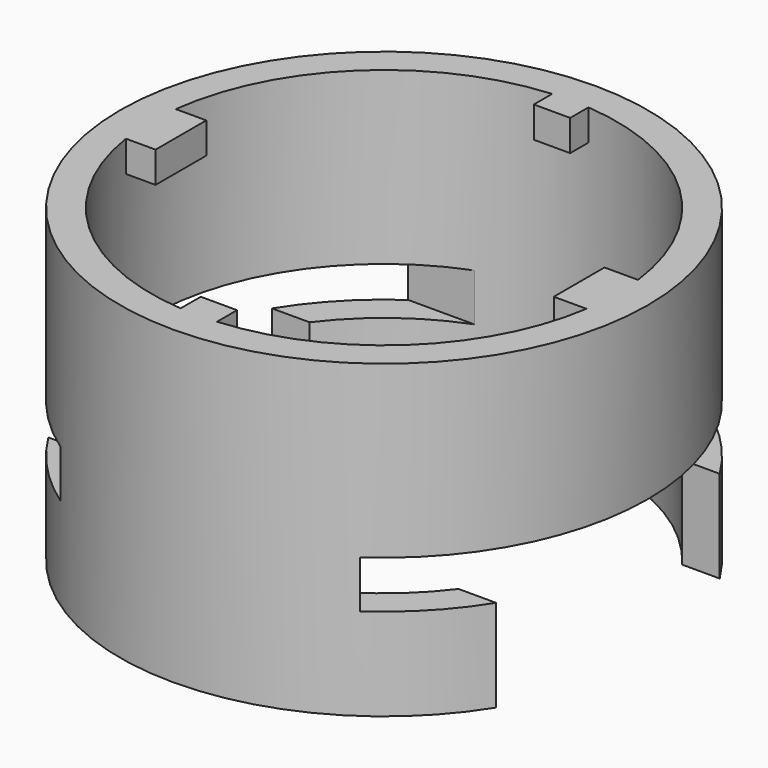
from build123d import *

# Parameters (mm, degrees)
F0_R     = 17
F0_R_2   = 15
F1_DEPTH = 20
F3_DEPTH = 25
F5_DEPTH = 2
F7_DEPTH = 2


with BuildPart() as f1:
    # F0 (on Top) → F1 (new body)
    with BuildSketch(Plane.XY):
        Circle(F0_R)
        Circle(F0_R_2, mode=Mode.SUBTRACT)
    extrude(amount=F1_DEPTH)

    # F2 (on Right) → F3 (cut, symmetric)
    with BuildSketch(Plane.YZ):
        Polygon((-9, 5.94), (-9, -6.120001), (9, -5.76), (9, 5.94), (14, 5.94), (14, 9.000001), (-14, 9.000001), (-14, 5.94), align=None)
    extrude(amount=F3_DEPTH, both=True, mode=Mode.SUBTRACT)

    # F4 (on face) → F5 (join)
    with BuildSketch(Plane.XY.offset(20)):
        with BuildLine():
            ThreePointArc((-14.831288, -2.243409), (-14.998609, -0.204311), (-14.886893, 1.838588))
            Line((-14.886893, 1.838588), (-16.424584, 1.838588))
            Line((-16.424584, 1.838588), (-16.424584, -2.243409))
            Line((-16.424584, -2.243409), (-14.831288, -2.243409))
        make_face()
        with BuildLine():
            Line((-12.919951, -2.243409), (-12.919951, 1.838588))
            Line((-12.919951, 1.838588), (-14.886893, 1.838588))
            ThreePointArc((-14.886893, 1.838588), (-14.998609, -0.204311), (-14.831288, -2.243409))
            Line((-14.831288, -2.243409), (-12.919951, -2.243409))
        make_face()
        with BuildLine():
            Line((14.886893, 1.838588), (12.728207, 1.838588))
            Line((12.728207, 1.838588), (12.728207, -2.243409))
            Line((12.728207, -2.243409), (14.831288, -2.243409))
            ThreePointArc((14.831288, -2.243409), (14.957763, -1.124872), (15, 0))
            ThreePointArc((15, 0), (14.971697, 0.921032), (14.886893, 1.838588))
        make_face()
        with BuildLine():
            Line((16.602479, 1.838588), (14.886893, 1.838588))
            ThreePointArc((14.886893, 1.838588), (14.971697, 0.921032), (15, 0))
            ThreePointArc((15, 0), (14.957763, -1.124872), (14.831288, -2.243409))
            Line((14.831288, -2.243409), (16.602479, -2.243409))
            Line((16.602479, -2.243409), (16.602479, 1.838588))
        make_face()
    extrude(amount=-F5_DEPTH)

    # F6 (on face) → F7 (join)
    with BuildSketch(Plane.XY.offset(20)):
        with BuildLine():
            ThreePointArc((1.204057, 14.951597), (0.034161, 14.999961), (-1.135944, 14.956926))
            Line((-1.135944, 14.956926), (-1.135944, 13.48272))
            Line((-1.135944, 13.48272), (1.204057, 13.48272))
            Line((1.204057, 13.48272), (1.204057, 14.951597))
        make_face()
        with BuildLine():
            Line((1.204057, 16.09272), (-1.135944, 16.09272))
            Line((-1.135944, 16.09272), (-1.135944, 14.956926))
            ThreePointArc((-1.135944, 14.956926), (0.034161, 14.999961), (1.204057, 14.951597))
            Line((1.204057, 14.951597), (1.204057, 16.09272))
        make_face()
        with BuildLine():
            ThreePointArc((1.204057, -14.951597), (0.034161, -14.999961), (-1.135944, -14.956926))
            Line((-1.135944, -14.956926), (-1.135944, -15.857281))
            Line((-1.135944, -15.857281), (1.204057, -15.857281))
            Line((1.204057, -15.857281), (1.204057, -14.951597))
        make_face()
        with BuildLine():
            Line((1.204057, -13.337282), (-1.135944, -13.337282))
            Line((-1.135944, -13.337282), (-1.135944, -14.956926))
            ThreePointArc((-1.135944, -14.956926), (0.034161, -14.999961), (1.204057, -14.951597))
            Line((1.204057, -14.951597), (1.204057, -13.337282))
        make_face()
    extrude(amount=-F7_DEPTH)


solid = f1.part
